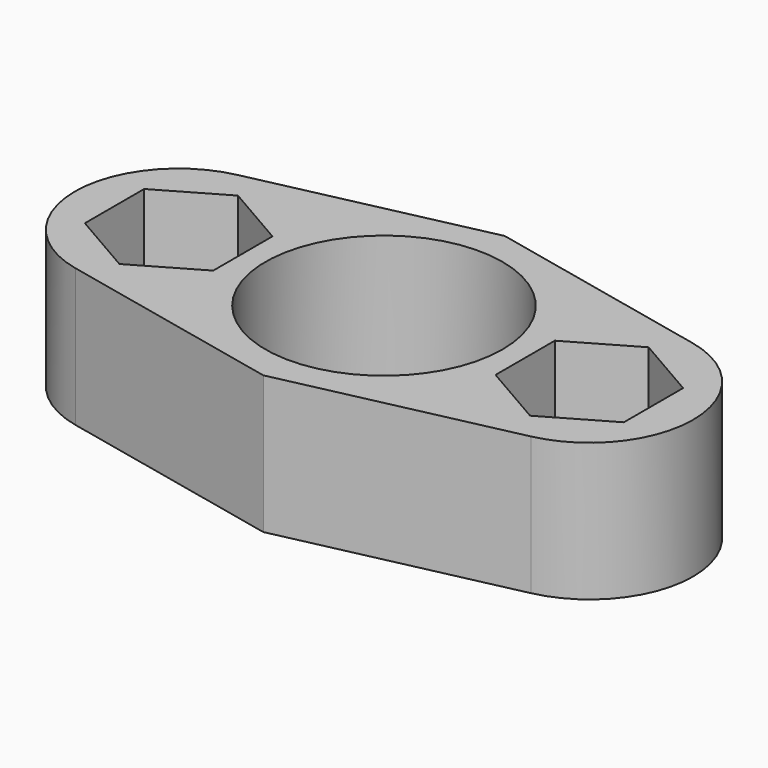
from build123d import *

# Parameters (mm, degrees)
F0_R     = 17.4625
F1_DEPTH = 20.32
F2_R     = 15.24


with BuildPart() as f1:
    # F0 (on Top) → F1 (new body)
    with BuildSketch(Plane.XY):
        Polygon((101.6, 0), (0, 22.225), (-101.6, 0), (0, -22.225), align=None)
        Polygon((-30.2387, -10.910534), (-39.6875, -5.455267), (-39.6875, 5.455267), (-30.2387, 10.910534), (-20.7899, 5.455267), (-20.7899, -5.455267), align=None, mode=Mode.SUBTRACT)
        Circle(F0_R, mode=Mode.SUBTRACT)
        Polygon((20.7899, -5.455267), (20.7899, 5.455267), (30.2387, 10.910534), (39.6875, 5.455267), (39.6875, -5.455267), (30.2387, -10.910534), align=None, mode=Mode.SUBTRACT)
    extrude(amount=F1_DEPTH)

    # F2
    f2_edges = [f1.edges().sort_by_distance(p)[0] for p in [
        (101.6, 0, 10.16),
        (-101.6, 0, 10.16),
    ]]
    fillet(f2_edges, radius=F2_R)


solid = f1.part
